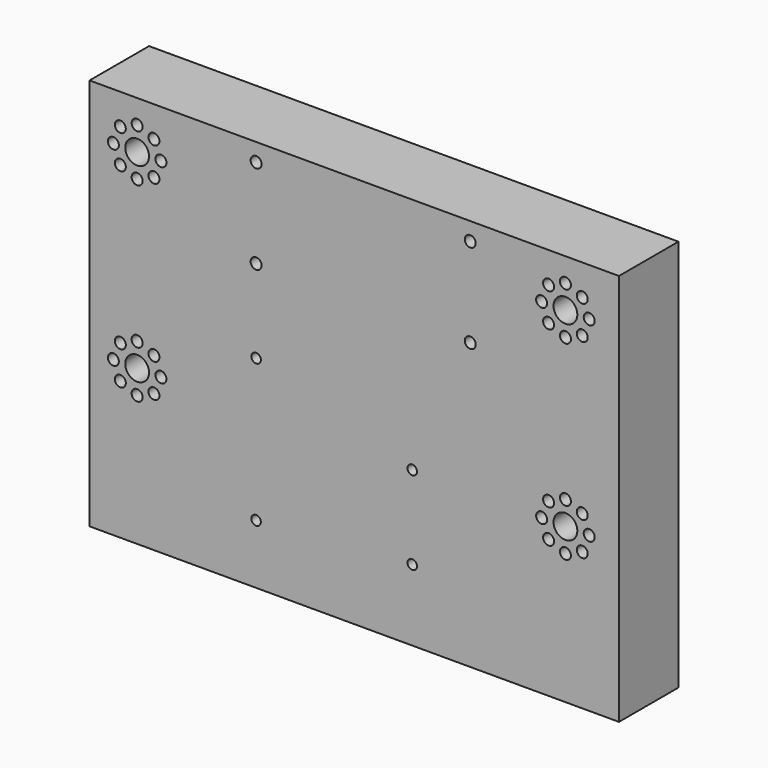
from build123d import *

# Parameters (mm, degrees)
F0_W     = 178
F0_H     = 132
F0_R     = 1.6
F0_R_2   = 1.85
F0_R_3   = 4
F1_DEPTH = 25


with BuildPart() as f1:
    # F0 (on Front) → F1 (new body)
    with BuildSketch(Plane.XZ):
        with Locations((0, -66)):
            Rectangle(F0_W, F0_H)
        with Locations((-33, -112)):
            Circle(F0_R, mode=Mode.SUBTRACT)
        with Locations((-78.656854, -85.656854)):
            Circle(F0_R_2, mode=Mode.SUBTRACT)
        with Locations((-73, -88)):
            Circle(F0_R_2, mode=Mode.SUBTRACT)
        with Locations((-67.343146, -85.656854)):
            Circle(F0_R_2, mode=Mode.SUBTRACT)
        with Locations((-81, -80)):
            Circle(F0_R_2, mode=Mode.SUBTRACT)
        with Locations((-78.656854, -74.343146)):
            Circle(F0_R_2, mode=Mode.SUBTRACT)
        with Locations((-73, -80)):
            Circle(F0_R_3, mode=Mode.SUBTRACT)
        with Locations((-67.343146, -74.343146)):
            Circle(F0_R_2, mode=Mode.SUBTRACT)
        with Locations((-73, -72)):
            Circle(F0_R_2, mode=Mode.SUBTRACT)
        with Locations((-65, -80)):
            Circle(F0_R_2, mode=Mode.SUBTRACT)
        with Locations((19.5, -108)):
            Circle(F0_R, mode=Mode.SUBTRACT)
        with Locations((19.5, -80)):
            Circle(F0_R, mode=Mode.SUBTRACT)
        with Locations((65.343146, -85.656854)):
            Circle(F0_R_2, mode=Mode.SUBTRACT)
        with Locations((71, -88)):
            Circle(F0_R_2, mode=Mode.SUBTRACT)
        with Locations((76.656854, -85.656854)):
            Circle(F0_R_2, mode=Mode.SUBTRACT)
        with Locations((63, -80)):
            Circle(F0_R_2, mode=Mode.SUBTRACT)
        with Locations((65.343146, -74.343146)):
            Circle(F0_R_2, mode=Mode.SUBTRACT)
        with Locations((71, -80)):
            Circle(F0_R_3, mode=Mode.SUBTRACT)
        with Locations((76.656854, -74.343146)):
            Circle(F0_R_2, mode=Mode.SUBTRACT)
        with Locations((79, -80)):
            Circle(F0_R_2, mode=Mode.SUBTRACT)
        with Locations((71, -72)):
            Circle(F0_R_2, mode=Mode.SUBTRACT)
        with Locations((-33, -64)):
            Circle(F0_R, mode=Mode.SUBTRACT)
        with Locations((-33, -36)):
            Circle(F0_R_2, mode=Mode.SUBTRACT)
        with Locations((-78.656854, -21.656854)):
            Circle(F0_R_2, mode=Mode.SUBTRACT)
        with Locations((-73, -24)):
            Circle(F0_R_2, mode=Mode.SUBTRACT)
        with Locations((-67.343146, -21.656854)):
            Circle(F0_R_2, mode=Mode.SUBTRACT)
        with Locations((-81, -16)):
            Circle(F0_R_2, mode=Mode.SUBTRACT)
        with Locations((-78.656854, -10.343146)):
            Circle(F0_R_2, mode=Mode.SUBTRACT)
        with Locations((-73, -16)):
            Circle(F0_R_3, mode=Mode.SUBTRACT)
        with Locations((-67.343146, -10.343146)):
            Circle(F0_R_2, mode=Mode.SUBTRACT)
        with Locations((-73, -8)):
            Circle(F0_R_2, mode=Mode.SUBTRACT)
        with Locations((-65, -16)):
            Circle(F0_R_2, mode=Mode.SUBTRACT)
        with Locations((-33, -6)):
            Circle(F0_R_2, mode=Mode.SUBTRACT)
        with Locations((39, -36)):
            Circle(F0_R_2, mode=Mode.SUBTRACT)
        with Locations((39, -6)):
            Circle(F0_R_2, mode=Mode.SUBTRACT)
        with Locations((65.343146, -21.656854)):
            Circle(F0_R_2, mode=Mode.SUBTRACT)
        with Locations((71, -24)):
            Circle(F0_R_2, mode=Mode.SUBTRACT)
        with Locations((76.656854, -21.656854)):
            Circle(F0_R_2, mode=Mode.SUBTRACT)
        with Locations((63, -16)):
            Circle(F0_R_2, mode=Mode.SUBTRACT)
        with Locations((65.343146, -10.343146)):
            Circle(F0_R_2, mode=Mode.SUBTRACT)
        with Locations((71, -16)):
            Circle(F0_R_3, mode=Mode.SUBTRACT)
        with Locations((76.656854, -10.343146)):
            Circle(F0_R_2, mode=Mode.SUBTRACT)
        with Locations((79, -16)):
            Circle(F0_R_2, mode=Mode.SUBTRACT)
        with Locations((71, -8)):
            Circle(F0_R_2, mode=Mode.SUBTRACT)
    extrude(amount=F1_DEPTH)


solid = f1.part
